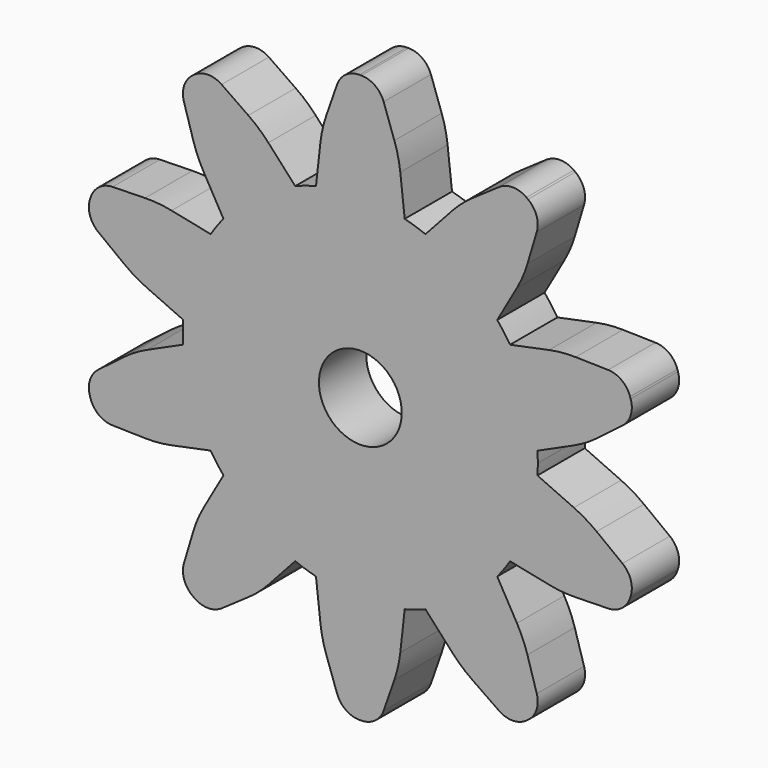
from build123d import *

# Parameters (mm, degrees)
F0_R     = 1.778
F1_DEPTH = 2.54
F2_R     = 5.08
F3_R     = 1.016


with BuildPart() as f1:
    # F0 (on Front) → F1 (new body)
    with BuildSketch(Plane.XZ):
        with BuildLine():
            ThreePointArc((7.605604, -0.468175), (7.6164, -0.234198), (7.62, 0))
            ThreePointArc((7.62, 0), (7.6164, 0.234198), (7.605604, 0.468175))
            ThreePointArc((7.605604, 0.468175), (7.247051, 2.354709), (6.428249, 4.0917))
            ThreePointArc((6.428249, 4.0917), (6.164709, 4.478924), (5.877877, 4.849223))
            ThreePointArc((5.877877, 4.849223), (4.478924, 6.164709), (2.795522, 7.088685))
            ThreePointArc((2.795522, 7.088685), (2.354709, 7.247051), (1.905, 7.378033))
            ThreePointArc((1.905, 7.378033), (0, 7.62), (-1.905, 7.378033))
            ThreePointArc((-1.905, 7.378033), (-2.354709, 7.247051), (-2.795522, 7.088685))
            ThreePointArc((-2.795522, 7.088685), (-4.478924, 6.164709), (-5.877877, 4.849223))
            ThreePointArc((-5.877877, 4.849223), (-6.164709, 4.478924), (-6.428249, 4.0917))
            ThreePointArc((-6.428249, 4.0917), (-7.247051, 2.354709), (-7.605604, 0.468175))
            ThreePointArc((-7.605604, 0.468175), (-7.62, 0), (-7.605604, -0.468175))
            ThreePointArc((-7.605604, -0.468175), (-7.247051, -2.354709), (-6.428249, -4.0917))
            ThreePointArc((-6.428249, -4.0917), (-6.164709, -4.478924), (-5.877877, -4.849223))
            ThreePointArc((-5.877877, -4.849223), (-4.478924, -6.164709), (-2.795522, -7.088685))
            ThreePointArc((-2.795522, -7.088685), (-2.354709, -7.247051), (-1.905, -7.378033))
            ThreePointArc((-1.905, -7.378033), (0, -7.62), (1.905, -7.378033))
            ThreePointArc((1.905, -7.378033), (2.354709, -7.247051), (2.795522, -7.088685))
            ThreePointArc((2.795522, -7.088685), (4.478924, -6.164709), (5.877877, -4.849223))
            ThreePointArc((5.877877, -4.849223), (6.164709, -4.478924), (6.428249, -4.0917))
            ThreePointArc((6.428249, -4.0917), (7.247051, -2.354709), (7.605604, -0.468175))
        make_face()
        Circle(F0_R, mode=Mode.SUBTRACT)
        with BuildLine():
            ThreePointArc((6.428249, 4.0917), (7.247051, 2.354709), (7.605604, 0.468175))
            Line((7.605604, 0.468175), (9.689785, 1.412438))
            Line((9.689785, 1.412438), (11.830752, 3.04283))
            Line((11.830752, 3.04283), (11.35981, 4.49224))
            Line((11.35981, 4.49224), (8.66941, 4.552826))
            Line((8.66941, 4.552826), (6.428249, 4.0917))
        make_face()
        with BuildLine():
            Line((9.689785, -1.412438), (7.605604, -0.468175))
            ThreePointArc((7.605604, -0.468175), (7.247051, -2.354709), (6.428249, -4.0917))
            Line((6.428249, -4.0917), (8.66941, -4.552826))
            Line((8.66941, -4.552826), (11.35981, -4.49224))
            Line((11.35981, -4.49224), (11.830752, -3.04283))
            Line((11.830752, -3.04283), (9.689785, -1.412438))
        make_face()
        with BuildLine():
            ThreePointArc((2.795522, 7.088685), (4.478924, 6.164709), (5.877877, 4.849223))
            Line((5.877877, 4.849223), (7.00899, 6.838199))
            Line((7.00899, 6.838199), (7.782749, 9.415643))
            Line((7.782749, 9.415643), (6.549807, 10.311428))
            Line((6.549807, 10.311428), (4.337616, 8.779065))
            Line((4.337616, 8.779065), (2.795522, 7.088685))
        make_face()
        with BuildLine():
            Line((7.00899, -6.838199), (5.877877, -4.849223))
            ThreePointArc((5.877877, -4.849223), (4.478924, -6.164709), (2.795522, -7.088685))
            Line((2.795522, -7.088685), (4.337616, -8.779065))
            Line((4.337616, -8.779065), (6.549807, -10.311428))
            Line((6.549807, -10.311428), (7.782749, -9.415643))
            Line((7.782749, -9.415643), (7.00899, -6.838199))
        make_face()
        with BuildLine():
            ThreePointArc((-1.905, 7.378033), (0, 7.62), (1.905, 7.378033))
            Line((1.905, 7.378033), (1.651, 9.652))
            Line((1.651, 9.652), (0.762, 12.192))
            Line((0.762, 12.192), (-0.762, 12.192))
            Line((-0.762, 12.192), (-1.651, 9.652))
            Line((-1.651, 9.652), (-1.905, 7.378033))
        make_face()
        with BuildLine():
            Line((1.651, -9.652), (1.905, -7.378033))
            ThreePointArc((1.905, -7.378033), (0, -7.62), (-1.905, -7.378033))
            Line((-1.905, -7.378033), (-1.651, -9.652))
            Line((-1.651, -9.652), (-0.762, -12.192))
            Line((-0.762, -12.192), (0.762, -12.192))
            Line((0.762, -12.192), (1.651, -9.652))
        make_face()
        with BuildLine():
            ThreePointArc((-5.877877, 4.849223), (-4.478924, 6.164709), (-2.795522, 7.088685))
            Line((-2.795522, 7.088685), (-4.337616, 8.779065))
            Line((-4.337616, 8.779065), (-6.549807, 10.311428))
            Line((-6.549807, 10.311428), (-7.782749, 9.415643))
            Line((-7.782749, 9.415643), (-7.00899, 6.838199))
            Line((-7.00899, 6.838199), (-5.877877, 4.849223))
        make_face()
        with BuildLine():
            Line((-4.337616, -8.779065), (-2.795522, -7.088685))
            ThreePointArc((-2.795522, -7.088685), (-4.478924, -6.164709), (-5.877877, -4.849223))
            Line((-5.877877, -4.849223), (-7.00899, -6.838199))
            Line((-7.00899, -6.838199), (-7.782749, -9.415643))
            Line((-7.782749, -9.415643), (-6.549807, -10.311428))
            Line((-6.549807, -10.311428), (-4.337616, -8.779065))
        make_face()
        with BuildLine():
            ThreePointArc((-7.605604, 0.468175), (-7.247051, 2.354709), (-6.428249, 4.0917))
            Line((-6.428249, 4.0917), (-8.66941, 4.552826))
            Line((-8.66941, 4.552826), (-11.35981, 4.49224))
            Line((-11.35981, 4.49224), (-11.830752, 3.04283))
            Line((-11.830752, 3.04283), (-9.689785, 1.412438))
            Line((-9.689785, 1.412438), (-7.605604, 0.468175))
        make_face()
        with BuildLine():
            Line((-8.66941, -4.552826), (-6.428249, -4.0917))
            ThreePointArc((-6.428249, -4.0917), (-7.247051, -2.354709), (-7.605604, -0.468175))
            Line((-7.605604, -0.468175), (-9.689785, -1.412438))
            Line((-9.689785, -1.412438), (-11.830752, -3.04283))
            Line((-11.830752, -3.04283), (-11.35981, -4.49224))
            Line((-11.35981, -4.49224), (-8.66941, -4.552826))
        make_face()
    extrude(amount=F1_DEPTH)

    # F2
    f2_edges = [f1.edges().sort_by_distance(p)[0] for p in [
        (7.00899, -1.27, 6.838199),
        (4.337616, -1.27, 8.779065),
        (1.651, -1.27, 9.652),
        (-4.337616, -1.27, 8.779065),
        (-8.66941, -1.27, 4.552826),
        (-9.689785, -1.27, -1.412438),
        (-7.00899, -1.27, -6.838199),
        (-1.651, -1.27, -9.652),
        (4.337616, -1.27, -8.779065),
        (8.66941, -1.27, -4.552826),
        (9.689785, -1.27, 1.412438),
        (9.689785, -1.27, -1.412438),
        (8.66941, -1.27, 4.552826),
        (-1.651, -1.27, 9.652),
        (-7.00899, -1.27, 6.838199),
        (-9.689785, -1.27, 1.412438),
        (-8.66941, -1.27, -4.552826),
        (-4.337616, -1.27, -8.779065),
        (1.651, -1.27, -9.652),
        (7.00899, -1.27, -6.838199),
    ]]
    fillet(f2_edges, radius=F2_R)

    # F3
    f3_edges = [f1.edges().sort_by_distance(p)[0] for p in [
        (0.762, -1.27, 12.192),
        (-0.762, -1.27, 12.192),
        (-6.549807, -1.27, 10.311428),
        (-7.782749, -1.27, 9.415643),
        (-11.35981, -1.27, 4.49224),
        (6.549807, -1.27, 10.311428),
        (7.782749, -1.27, 9.415643),
        (11.35981, -1.27, 4.49224),
        (-11.830752, -1.27, 3.04283),
        (-11.830752, -1.27, -3.04283),
        (-11.35981, -1.27, -4.49224),
        (-7.782749, -1.27, -9.415643),
        (-6.549807, -1.27, -10.311428),
        (-0.762, -1.27, -12.192),
        (0.762, -1.27, -12.192),
        (6.549807, -1.27, -10.311428),
        (7.782749, -1.27, -9.415643),
        (11.830752, -1.27, -3.04283),
        (11.35981, -1.27, -4.49224),
        (11.830752, -1.27, 3.04283),
    ]]
    fillet(f3_edges, radius=F3_R)


solid = f1.part
